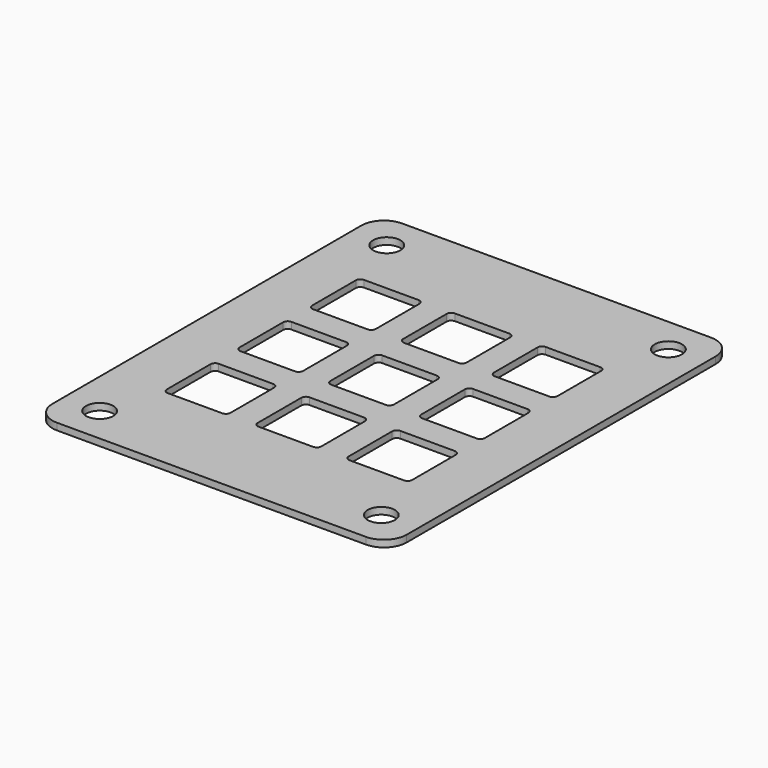
from build123d import *

# Parameters (mm, degrees)
SKETCH_W        = 78
SKETCH_H        = 95
PAD_DEPTH       = 1.5
SKETCH002_W     = 14
SKETCH002_H     = 14
POCKET_DEPTH    = 1.501
FILLET_R        = 1
SKETCH003_R     = 3
POCKET001_DEPTH = 1.501
FILLET001_R     = 5


with BuildPart() as part:
    # Sketch → Pad (new body)
    with BuildSketch(Plane.XY):
        Rectangle(SKETCH_W, SKETCH_H)
    extrude(amount=PAD_DEPTH)

    # Sketch002 (on Face6 of Pad) → Pocket (cut, through all)
    with BuildSketch(Plane.XY.offset(1.5)):
        with Locations((-20, 20)):
            Rectangle(SKETCH002_W, SKETCH002_H)
        with Locations((0, 20)):
            Rectangle(SKETCH002_W, SKETCH002_H)
        with Locations((20, 20)):
            Rectangle(SKETCH002_W, SKETCH002_H)
        with Locations((-20, 0)):
            Rectangle(SKETCH002_W, SKETCH002_H)
        Rectangle(SKETCH002_W, SKETCH002_H)
        with Locations((20, 0)):
            Rectangle(SKETCH002_W, SKETCH002_H)
        with Locations((-20, -20)):
            Rectangle(SKETCH002_W, SKETCH002_H)
        with Locations((0, -20)):
            Rectangle(SKETCH002_W, SKETCH002_H)
        with Locations((20, -20)):
            Rectangle(SKETCH002_W, SKETCH002_H)
    extrude(amount=-POCKET_DEPTH, mode=Mode.SUBTRACT)

    # Fillet
    fillet_edges = [part.edges().sort_by_distance(p)[0] for p in [
        (-27, 27, 0.75),
        (-27, 7, 0.75),
        (-27, -13, 0.75),
        (-7, 27, 0.75),
        (-7, 7, 0.75),
        (-7, -13, 0.75),
        (13, -13, 0.75),
        (13, 7, 0.75),
        (13, 27, 0.75),
        (-13, 27, 0.75),
        (7, 27, 0.75),
        (27, 27, 0.75),
        (-13, 7, 0.75),
        (7, 7, 0.75),
        (27, 7, 0.75),
        (-13, -13, 0.75),
        (7, -13, 0.75),
        (27, -13, 0.75),
        (27, 13, 0.75),
        (7, 13, 0.75),
        (-13, 13, 0.75),
        (27, -7, 0.75),
        (7, -7, 0.75),
        (-13, -7, 0.75),
        (27, -27, 0.75),
        (7, -27, 0.75),
        (-13, -27, 0.75),
        (13, -27, 0.75),
        (-7, -27, 0.75),
        (-27, -27, 0.75),
        (13, -7, 0.75),
        (-7, -7, 0.75),
        (-27, -7, 0.75),
        (13, 13, 0.75),
        (-7, 13, 0.75),
        (-27, 13, 0.75),
    ]]
    fillet(fillet_edges, radius=FILLET_R)

    # Sketch003 (on Face78 of Fillet) → Pocket001 (cut, through all)
    with BuildSketch(Plane.XY.offset(1.5)):
        with Locations((-31, 39.5)):
            Circle(SKETCH003_R)
        with Locations((31, 39.5)):
            Circle(SKETCH003_R)
        with Locations((31, -39.5)):
            Circle(SKETCH003_R)
        with Locations((-31, -39.5)):
            Circle(SKETCH003_R)
    extrude(amount=-POCKET001_DEPTH, mode=Mode.SUBTRACT)

    # Fillet001
    fillet001_edges = [part.edges().sort_by_distance(p)[0] for p in [
        (39, -47.5, 0.75),
        (-39, -47.5, 0.75),
        (-39, 47.5, 0.75),
        (39, 47.5, 0.75),
    ]]
    fillet(fillet001_edges, radius=FILLET001_R)


solid = part.part
